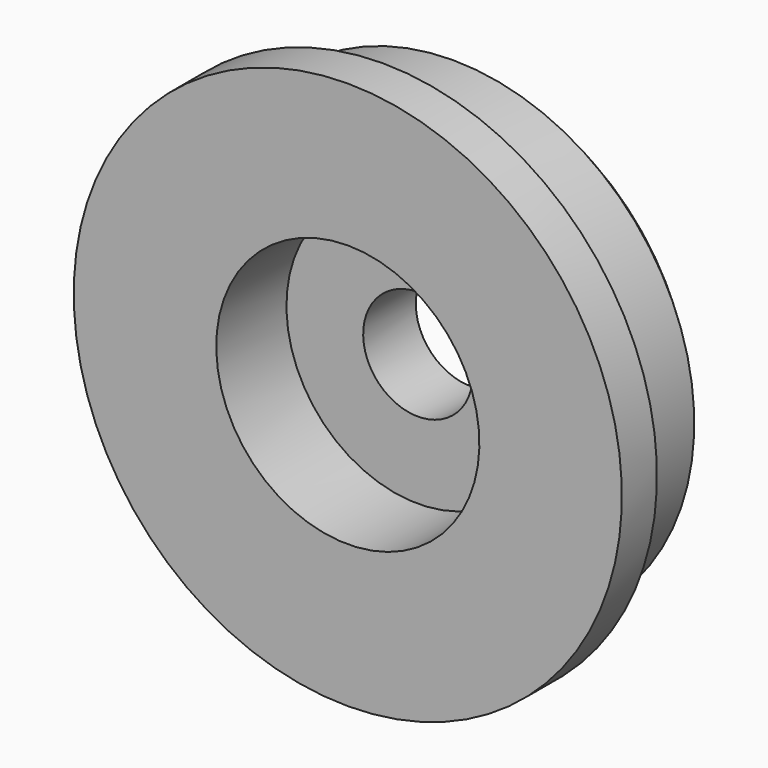
from build123d import *

# Parameters (mm, degrees)
F2_SIZE = 1


with BuildPart() as f1:
    # F0 (on Right) → F1 (revolve)
    with BuildSketch(Plane.YZ):
        Polygon((0, 6), (4, 6), (4, 2.5), (7, 2.5), (7, 11), (2, 11), (2, 12.5), (0, 12.5), align=None)
    revolve(axis=Axis((0, 5.735075, 0), (0, -1, 0)))

    # F2
    f2_edges = [f1.edges().sort_by_distance(p)[0] for p in [
        (0, 7, -11),
    ]]
    chamfer(f2_edges, length=F2_SIZE)


solid = f1.part
